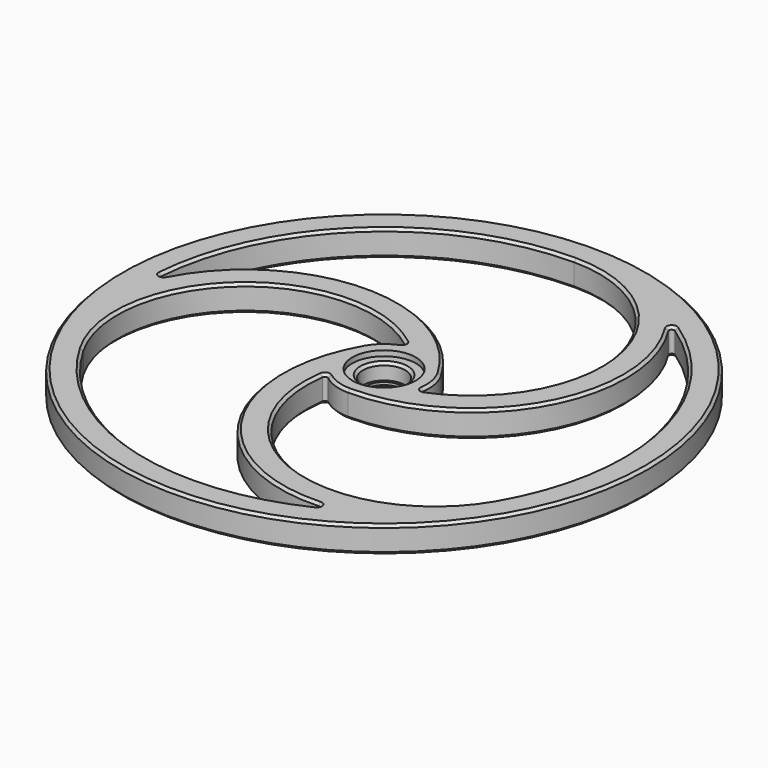
from build123d import *

# Parameters (mm, degrees)
F0_R     = 50
F0_R_2   = 6
F0_R_3   = 4
F1_DEPTH = 5
F2_R     = 0.5
F3_START = 4
F3_DEPTH = 1
F4_R     = 4
F4_R_2   = 3.5
F5_DEPTH = 1
F7_SIZE  = 0.5


with BuildPart() as f1:
    # F0 (on Top) → F1 (new body)
    with BuildSketch(Plane.XY):
        Circle(F0_R)
        with BuildLine():
            ThreePointArc((-38.9711431703, -22.5), (-33.538897557, 8.2172772564), (-2.3450168935, 8.1701221392))
            ThreePointArc((-2.3450168935, 8.1701221392), (-5.2339830257, 6.6974190317), (-7.3612159322, 4.25))
            ThreePointArc((-7.3612159322, 4.25), (-6.3511784976, -26.6243525069), (21.7853502987, -39.3751001568))
            ThreePointArc((21.7853502987, -39.3751001568), (-12.0428451988, -43.3586194374), (-38.9711431703, -22.5))
        make_face(mode=Mode.SUBTRACT)
        with BuildLine():
            ThreePointArc((-44.9925121618, 0.8208832894), (-31.5282433064, 32.1087195947), (0, 45))
            ThreePointArc((0, 45), (23.8858196325, 24.9368986711), (8.2480417713, -2.0542168675))
            ThreePointArc((8.2480417713, -2.0542168675), (8.4171265341, 1.1840527474), (7.3612159322, 4.25))
            ThreePointArc((7.3612159322, 4.25), (-19.8817763815, 18.8124581763), (-44.9925121618, 0.8208832894))
        make_face(mode=Mode.SUBTRACT)
        Circle(F0_R_2, mode=Mode.SUBTRACT)
        with BuildLine():
            ThreePointArc((38.9711431703, -22.5), (9.6530779245, -33.1541759275), (-5.9030248778, -6.1159052717))
            ThreePointArc((-5.9030248778, -6.1159052717), (-3.1831435084, -7.8814717791), (0, -8.5))
            ThreePointArc((0, -8.5), (26.2329548791, 7.8118943306), (23.207161863, 38.5542168675))
            ThreePointArc((23.207161863, 38.5542168675), (43.5710885052, 11.2498998427), (38.9711431703, -22.5))
        make_face(mode=Mode.SUBTRACT)
        Circle(F0_R_2)
        Circle(F0_R_3, mode=Mode.SUBTRACT)
    extrude(amount=F1_DEPTH)

    # F2
    f2_edges = [f1.edges().sort_by_distance(p)[0] for p in [
        (23.207162, 38.554217, 2.5),
        (21.78535, -39.3751, 2.5),
        (-44.992512, 0.820883, 2.5),
        (-5.903025, -6.115905, 2.5),
        (8.248042, -2.054217, 2.5),
        (-2.345017, 8.170122, 2.5),
    ]]
    fillet(f2_edges, radius=F2_R)

    # F0 (on Top) → F3 (cut)
    with BuildSketch(Plane.XY.offset(F3_START)):
        Circle(F0_R_2)
        Circle(F0_R_3, mode=Mode.SUBTRACT)
    extrude(amount=F3_DEPTH, mode=Mode.SUBTRACT)


with BuildPart() as f5:
    # F4 (on Top) → F5 (new body)
    with BuildSketch(Plane.XY):
        Circle(F4_R)
        Circle(F4_R_2, mode=Mode.SUBTRACT)
    extrude(amount=F5_DEPTH)


with BuildPart() as f1_1:
    add(f1.part)

    # F6: union F5
    add(f5.part)

    # F7
    f7_edges = [f1_1.edges().sort_by_distance(p)[0] for p in [
        (-33.885168, 7.921742, 0),
        (-2.864642, 8.279597, 0),
        (-5.572, 6.418942, 0),
        (-7.026945, -25.564268, 0),
        (19.788577, -39.972953, 0),
        (-13.266183, -43.000098, 0),
        (-50, 0, 0),
        (-30.606085, 32.9889, 0),
        (23.803014, 25.384545, 0),
        (8.602662, -1.658946, 0),
        (8.344967, 1.616023, 0),
        (-18.625833, 18.867647, 0),
        (-44.511881, 2.849066, 0),
        (43.872268, 10.011197, 0),
        (10.082154, -33.306288, 0),
        (-5.73802, -6.620651, 0),
        (-2.772966, -8.034965, 0),
        (25.652778, 6.696621, 0),
        (24.723304, 37.123887, 0),
        (-3.5, 0, 0),
        (-4, 0, 4),
        (-33.885168, 7.921742, 5),
        (-18.625833, 18.867647, 5),
        (23.803014, 25.384545, 5),
        (25.652778, 6.696621, 5),
        (-50, 0, 5),
    ]]
    chamfer(f7_edges, length=F7_SIZE)


solid = f1_1.part
